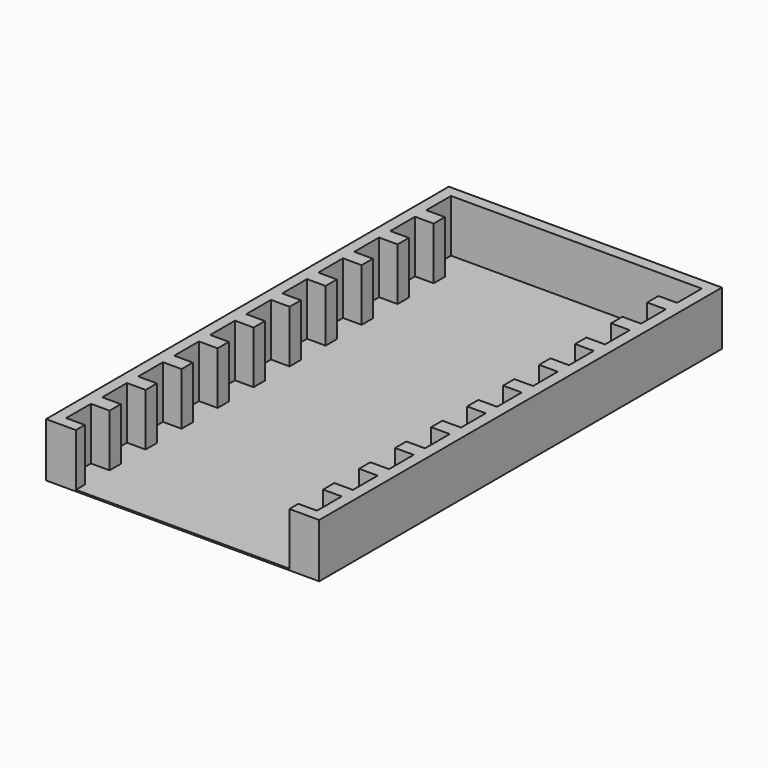
from build123d import *

# Parameters (mm, degrees)
F1_DEPTH = 14.5
F3_DEPTH = 0.4


with BuildPart() as f1:
    # F0 (on Top) → F1 (new body)
    with BuildSketch(Plane.XY):
        Polygon((-33.65, -4.15), (-33.65, 4.15), (-28.65, 4.15), (-28.65, 7.93), (-33.65, 7.93), (-33.65, 16.23), (-28.65, 16.23), (-28.65, 20.01), (-33.65, 20.01), (-33.65, 28.31), (-28.65, 28.31), (-28.65, 32.09), (-33.65, 32.09), (-33.65, 40.39), (-28.65, 40.39), (-28.65, 44.17), (-33.65, 44.17), (-33.65, 52.47), (-28.65, 52.47), (-28.65, 56.25), (-33.65, 56.25), (-33.65, 64.55), (-28.65, 64.55), (-28.65, 68.33), (-33.65, 68.33), (-33.65, 76.63), (-28.65, 76.63), (-28.65, 80.41), (-33.65, 80.41), (-33.65, 88.71), (-28.65, 88.71), (-28.65, 92.49), (-33.65, 92.49), (-33.65, 100.79), (-28.65, 100.79), (-28.65, 104.57), (-33.65, 104.57), (-33.65, 112.87), (-28.65, 112.87), (-28.65, 116.65), (-33.65, 116.65), (-33.65, 124.95), (-28.65, 124.95), (28.65, 124.95), (33.65, 124.95), (33.65, 116.65), (28.65, 116.65), (28.65, 112.87), (33.65, 112.87), (33.65, 104.57), (28.65, 104.57), (28.65, 100.79), (33.65, 100.79), (33.65, 92.49), (28.65, 92.49), (28.65, 88.71), (33.65, 88.71), (33.65, 80.41), (28.65, 80.41), (28.65, 76.63), (33.65, 76.63), (33.65, 68.33), (28.65, 68.33), (28.65, 64.55), (33.65, 64.55), (33.65, 56.25), (28.65, 56.25), (28.65, 52.47), (33.65, 52.47), (33.65, 44.17), (28.65, 44.17), (28.65, 40.39), (33.65, 40.39), (33.65, 32.09), (28.65, 32.09), (28.65, 28.31), (33.65, 28.31), (33.65, 20.01), (28.65, 20.01), (28.65, 16.23), (33.65, 16.23), (33.65, 7.93), (28.65, 7.93), (28.65, 4.15), (33.65, 4.15), (33.65, -4.15), (28.65, -4.15), (28.65, -7.15), (36.65, -7.15), (36.65, 127.95), (-36.65, 127.95), (-36.65, -7.15), (-28.65, -7.15), (-28.65, -4.15), align=None)
    extrude(amount=F1_DEPTH)

    # F2 (on face) → F3 (join)
    with BuildSketch(Plane(origin=(0, 0, 0), x_dir=(1, 0, 0), z_dir=(0, 0, -1))):
        Polygon((28.65, 4.15), (28.65, 7.15), (-28.65, 7.15), (-28.65, 4.15), (-33.65, 4.15), (-33.65, -4.15), (-28.65, -4.15), (-28.65, -7.93), (-33.65, -7.93), (-33.65, -16.23), (-28.65, -16.23), (-28.65, -20.01), (-33.65, -20.01), (-33.65, -28.31), (-28.65, -28.31), (-28.65, -32.09), (-33.65, -32.09), (-33.65, -40.39), (-28.65, -40.39), (-28.65, -44.17), (-33.65, -44.17), (-33.65, -52.47), (-28.65, -52.47), (-28.65, -56.25), (-33.65, -56.25), (-33.65, -64.55), (-28.65, -64.55), (-28.65, -68.33), (-33.65, -68.33), (-33.65, -76.63), (-28.65, -76.63), (-28.65, -80.41), (-33.65, -80.41), (-33.65, -88.71), (-28.65, -88.71), (-28.65, -92.49), (-33.65, -92.49), (-33.65, -100.79), (-28.65, -100.79), (-28.65, -104.57), (-33.65, -104.57), (-33.65, -112.87), (-28.65, -112.87), (-28.65, -116.65), (-33.65, -116.65), (-33.65, -124.95), (33.65, -124.95), (33.65, -116.65), (28.65, -116.65), (28.65, -112.87), (33.65, -112.87), (33.65, -104.57), (28.65, -104.57), (28.65, -100.79), (33.65, -100.79), (33.65, -92.49), (28.65, -92.49), (28.65, -88.71), (33.65, -88.71), (33.65, -80.41), (28.65, -80.41), (28.65, -76.63), (33.65, -76.63), (33.65, -68.33), (28.65, -68.33), (28.65, -64.55), (33.65, -64.55), (33.65, -56.25), (28.65, -56.25), (28.65, -52.47), (33.65, -52.47), (33.65, -44.17), (28.65, -44.17), (28.65, -40.39), (33.65, -40.39), (33.65, -32.09), (28.65, -32.09), (28.65, -28.31), (33.65, -28.31), (33.65, -20.01), (28.65, -20.01), (28.65, -16.23), (33.65, -16.23), (33.65, -7.93), (28.65, -7.93), (28.65, -4.15), (33.65, -4.15), (33.65, 4.15), align=None)
    extrude(amount=-F3_DEPTH)


solid = f1.part
